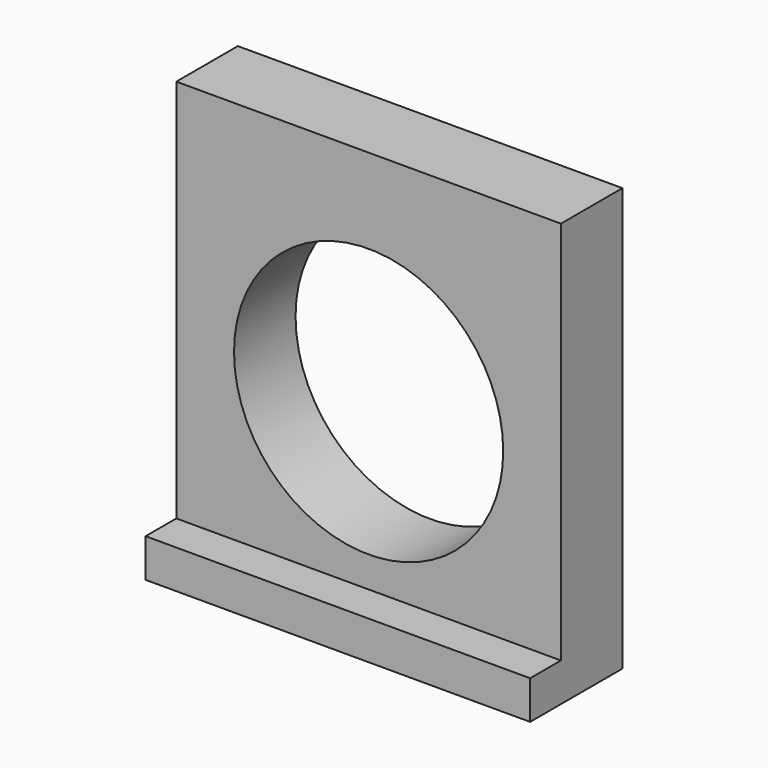
from build123d import *

# Parameters (mm, degrees)
F0_W     = 50
F0_H     = 5
F0_H_2   = 50
F0_R     = 17.5
F1_DEPTH = 10
F2_W     = 50
F2_H     = 5
F3_DEPTH = 5


with BuildPart() as f1:
    # F0 (on Front) → F1 (new body)
    with BuildSketch(Plane.XZ):
        with Locations((0, -27.5)):
            Rectangle(F0_W, F0_H)
        Rectangle(F0_W, F0_H_2)
        with Locations((0, -3.5)):
            Circle(F0_R, mode=Mode.SUBTRACT)
    extrude(amount=F1_DEPTH)

    # F2 (on face) → F3 (join)
    with BuildSketch(Plane.XZ.offset(10)):
        with Locations((0, -27.5)):
            Rectangle(F2_W, F2_H)
    extrude(amount=F3_DEPTH)


solid = f1.part
